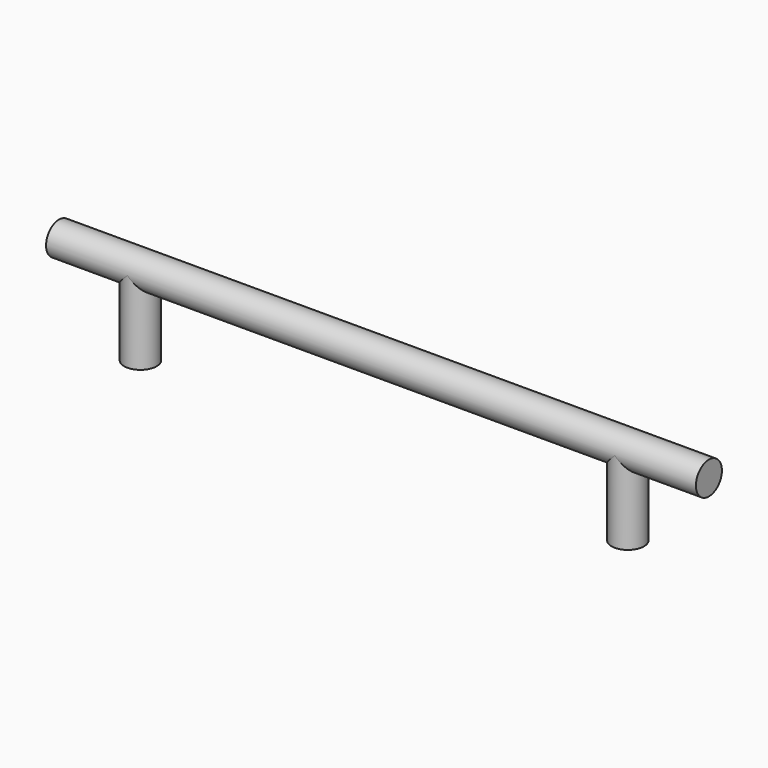
from build123d import *

# Parameters (mm, degrees)
F1_R     = 6.35
F3_R     = 6.35
F6_D     = 3.175
F6_DEPTH = 12.7
F6_TIP   = 0.9538662327


with BuildPart() as f2:
    # F2: sweep along a path in F0
    with BuildLine(Plane.XZ) as f2_path:
        Line((0, 0), (-254, 0))
    # F1 (on Right) → F2 (sweep)
    with BuildSketch(Plane.YZ):
        Circle(F1_R)
    sweep(path=f2_path.line)

    # F4: sweep along a path in F0
    with BuildLine(Plane.XZ) as f4_path:
        Line((-222.25, 0), (-222.25, -31.75))
    # F3 (on Top) → F4 (sweep)
    with BuildSketch(Plane.XY):
        with Locations((-222.1939712763, 0)):
            Circle(F3_R)
        with Locations((-31.6939712763, 0)):
            Circle(F3_R)
    sweep(path=f4_path.line)

    # F6
    with Locations(Plane(origin=(0, 0, -31.75), x_dir=(1, 0, 0), z_dir=(0, 0, -1))):
        with Locations((-222.1939712763, 0), (-31.6939712763, 0)):
            Hole(F6_D / 2, depth=F6_DEPTH)
            with Locations((0, 0, -(F6_DEPTH + F6_TIP / 2))):  # 118° drill point
                Cone(0, F6_D / 2, F6_TIP, mode=Mode.SUBTRACT)


solid = f2.part
